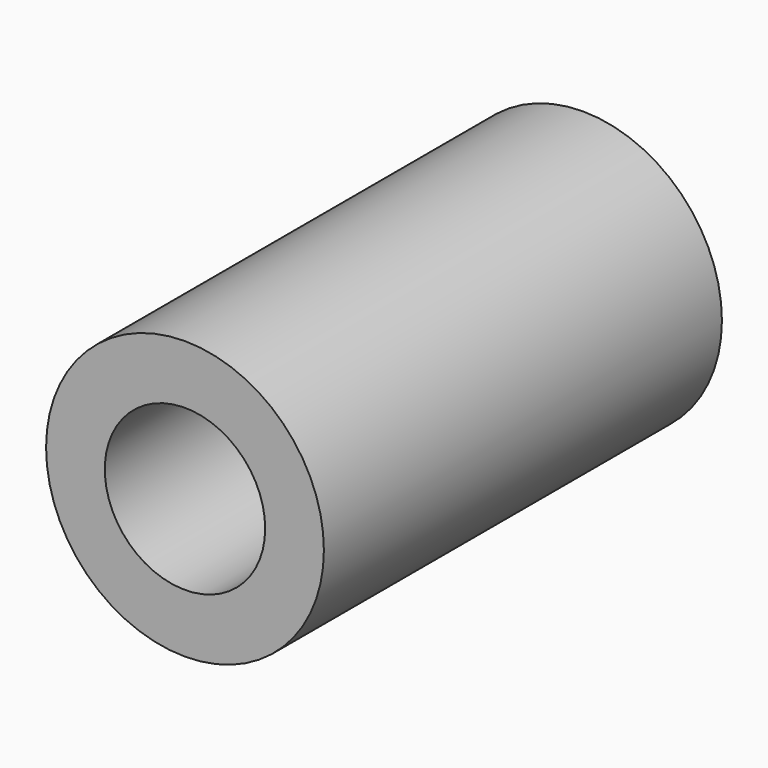
from build123d import *

# Parameters (mm, degrees)
F0_R     = 5.5
F1_DEPTH = 19.7
F2_R     = 3.175
F3_DEPTH = 7.3
F5_R     = 3.175
F6_DEPTH = 6
F4_R     = 0.8
F7_DEPTH = 12.401


with BuildPart() as f1:
    # F0 (on Front) → F1 (new body)
    with BuildSketch(Plane.XZ):
        Circle(F0_R)
    extrude(amount=F1_DEPTH)

    # F2 (on face) → F3 (cut)
    with BuildSketch(Plane.XZ.offset(19.7)):
        Circle(F2_R)
    extrude(amount=-F3_DEPTH, mode=Mode.SUBTRACT)

    # F5 (on face) → F6 (cut)
    with BuildSketch(Plane(origin=(0, 0, 0), x_dir=(-1, 0, 0), z_dir=(0, 1, 0))):
        Circle(F5_R)
    extrude(amount=-F6_DEPTH, mode=Mode.SUBTRACT)

    # F4 (on face) → F7 (cut, through all)
    with BuildSketch(Plane.XZ.offset(12.4)):
        Circle(F4_R)
    extrude(amount=-F7_DEPTH, mode=Mode.SUBTRACT)


solid = f1.part
